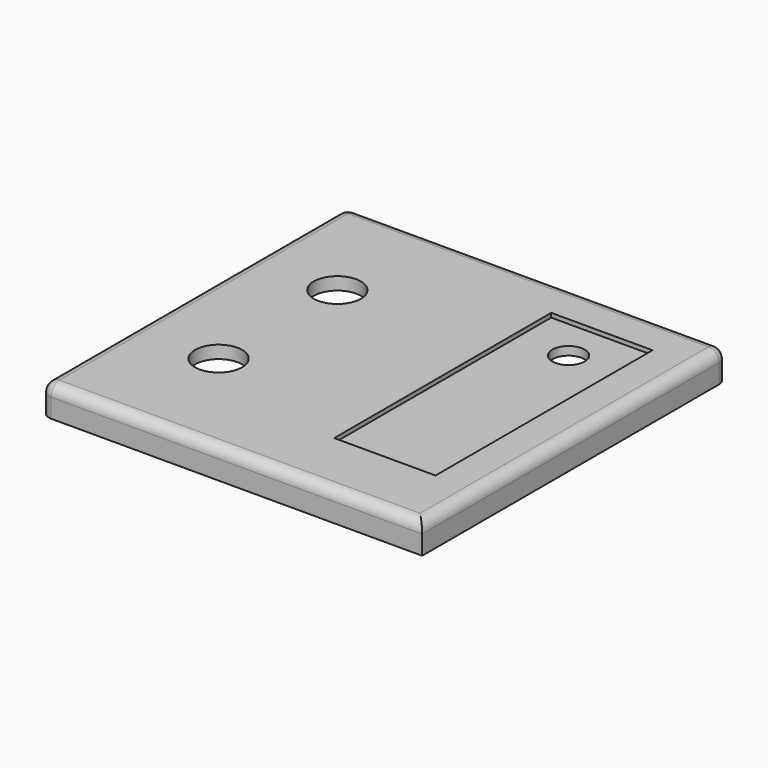
from build123d import *

# Parameters (mm, degrees)
F0_W     = 180
F0_H     = 180
F0_R     = 11.1125
F0_W_2   = 47.792598
F0_H_2   = 127.960831
F1_DEPTH = 6
F0_R_2   = 7.62
F2_DEPTH = 4
F3_W     = 180
F3_H     = 180
F3_W_2   = 172
F3_H_2   = 172
F4_DEPTH = 8
F5_R     = 5


with BuildPart() as f1:
    # F0 (on Top) → F1 (new body)
    with BuildSketch(Plane.XY):
        Rectangle(F0_W, F0_H)
        with Locations((-50.008792, -35)):
            Circle(F0_R, mode=Mode.SUBTRACT)
        with Locations((-50.008792, 35)):
            Circle(F0_R, mode=Mode.SUBTRACT)
        with Locations((46.732679, 6.070435)):
            Rectangle(F0_W_2, F0_H_2, mode=Mode.SUBTRACT)
    extrude(amount=F1_DEPTH)

    # F0 (on Top) → F2 (join)
    with BuildSketch(Plane.XY):
        with Locations((46.732679, 6.070435)):
            Rectangle(F0_W_2, F0_H_2)
        with Locations((46.732679, 50.394215)):
            Circle(F0_R_2, mode=Mode.SUBTRACT)
    extrude(amount=F2_DEPTH)

    # F3 (on Top) → F4 (join)
    with BuildSketch(Plane.XY):
        Rectangle(F3_W, F3_H)
        Rectangle(F3_W_2, F3_H_2, mode=Mode.SUBTRACT)
    extrude(amount=-F4_DEPTH)

    # F5
    f5_edges = [f1.edges().sort_by_distance(p)[0] for p in [
        (-90, 0, 6),
        (0, -90, 6),
        (90, 0, 6),
        (90, 90, -1),
        (0, 90, 6),
        (-90, 90, -1),
        (-90, -90, -1),
    ]]
    fillet(f5_edges, radius=F5_R)


solid = f1.part
